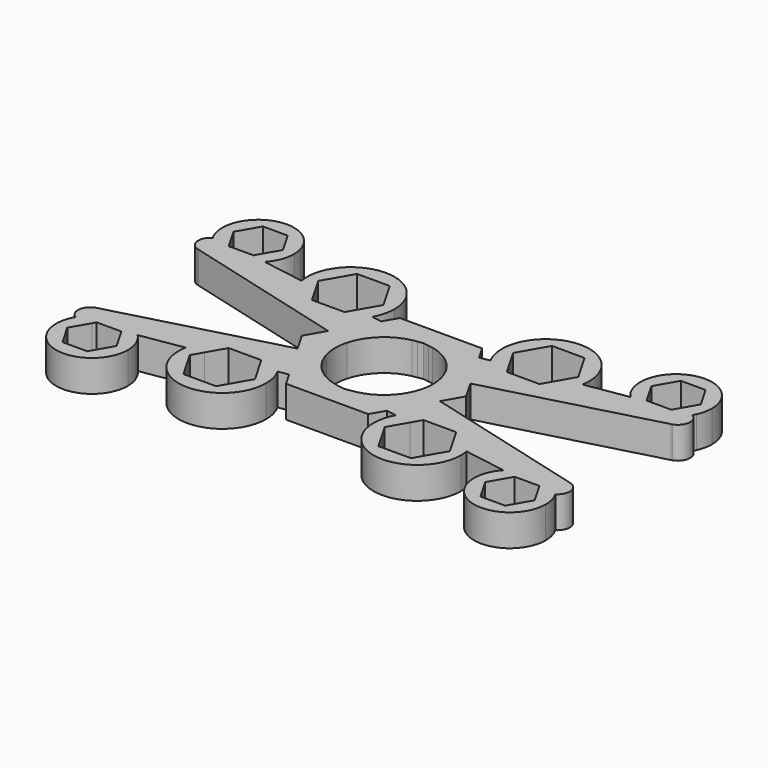
from build123d import *

# Parameters (mm, degrees)
F1_DEPTH = 7.112


with BuildPart() as f1:
    # F0 (on Top) → F1 (new body)
    with BuildSketch(Plane.XY):
        with BuildLine():
            ThreePointArc((10.6251840892, 2.8470094961), (10.9058934751, 1.4357881144), (11, 0))
            ThreePointArc((11, 0), (10.9058934751, -1.4357881144), (10.6251840892, -2.8470094961))
            Line((10.6251840892, -2.8470094961), (16, -4.2871870789))
            Line((16, -4.2871870789), (18.4752086141, 0))
            Line((18.4752086141, 0), (16, 4.2871870789))
            Line((16, 4.2871870789), (10.6251840892, 2.8470094961))
        make_face()
        with BuildLine():
            ThreePointArc((2.3236208311, 10.7517806076), (7.5854623324, 7.9662262837), (10.6251840892, 2.8470094961))
            Line((10.6251840892, 2.8470094961), (16, 4.2871870789))
            Line((16, 4.2871870789), (11.0113274357, 12.9278214226))
            Line((11.0113274357, 12.9278214226), (0, 11.1309567143))
            Line((0, 11.1309567143), (1.2149244137, 10.9327013436))
            ThreePointArc((1.2149244137, 10.9327013436), (1.7715836674, 10.85640324), (2.3236208311, 10.7517806076))
        make_face()
        with BuildLine():
            Line((16, -4.2871870789), (10.6251840892, -2.8470094961))
            ThreePointArc((10.6251840892, -2.8470094961), (7.5854623324, -7.9662262837), (2.3236208311, -10.7517806076))
            ThreePointArc((2.3236208311, -10.7517806076), (1.7715836674, -10.85640324), (1.2149244137, -10.9327013436))
            Line((1.2149244137, -10.9327013436), (0, -11.1309567143))
            Line((0, -11.1309567143), (11.0113274357, -12.9278214226))
            Line((11.0113274357, -12.9278214226), (16, -4.2871870789))
        make_face()
        with BuildLine():
            Line((11.0113274357, 12.9278214226), (16, 4.2871870789))
            Line((16, 4.2871870789), (53.1259204459, 14.2350474806))
            Line((53.1259204459, 14.2350474806), (53.3681734225, 14.2999589701))
            ThreePointArc((53.3681734225, 14.2999589701), (55.2682901636, 16.609098435), (53.9375606845, 19.2871066037))
            ThreePointArc((53.9375606845, 19.2871066037), (47.8886518321, 15.352252649), (41.115004399, 17.8402386621))
            Line((41.115004399, 17.8402386621), (31.5830197659, 16.2847779888))
            ThreePointArc((31.5830197659, 16.2847779888), (23.4939599579, 8.3460272865), (13.3007907375, 13.3014235911))
            Line((13.3007907375, 13.3014235911), (11.0113274357, 12.9278214226))
        make_face()
        with BuildLine():
            Line((53.1259204459, -14.2350474806), (16, -4.2871870789))
            Line((16, -4.2871870789), (11.0113274357, -12.9278214226))
            Line((11.0113274357, -12.9278214226), (13.3007907375, -13.3014235911))
            ThreePointArc((13.3007907375, -13.3014235911), (23.4939599579, -8.3460272865), (31.5830197659, -16.2847779888))
            Line((31.5830197659, -16.2847779888), (41.115004399, -17.8402386621))
            ThreePointArc((41.115004399, -17.8402386621), (47.8886518321, -15.352252649), (53.9375606845, -19.2871066037))
            ThreePointArc((53.9375606845, -19.2871066037), (55.2682901636, -16.609098435), (53.3681734225, -14.2999589701))
            Line((53.3681734225, -14.2999589701), (53.1259204459, -14.2350474806))
        make_face()
        with BuildLine():
            Line((-16, -4.2871870789), (-10.6251840892, -2.8470094961))
            ThreePointArc((-10.6251840892, -2.8470094961), (-11, 0), (-10.6251840892, 2.8470094961))
            Line((-10.6251840892, 2.8470094961), (-16, 4.2871870789))
            Line((-16, 4.2871870789), (-18.4752086141, 0))
            Line((-18.4752086141, 0), (-16, -4.2871870789))
        make_face()
        with BuildLine():
            ThreePointArc((-2.3236208311, -10.7517806076), (-7.5854623324, -7.9662262837), (-10.6251840892, -2.8470094961))
            Line((-10.6251840892, -2.8470094961), (-16, -4.2871870789))
            Line((-16, -4.2871870789), (-11.0113274357, -12.9278214226))
            Line((-11.0113274357, -12.9278214226), (0, -11.1309567143))
            Line((0, -11.1309567143), (-1.2149244137, -10.9327013436))
            ThreePointArc((-1.2149244137, -10.9327013436), (-1.7715836674, -10.85640324), (-2.3236208311, -10.7517806076))
        make_face()
        with BuildLine():
            Line((-16, 4.2871870789), (-10.6251840892, 2.8470094961))
            ThreePointArc((-10.6251840892, 2.8470094961), (-7.5854623324, 7.9662262837), (-2.3236208311, 10.7517806076))
            ThreePointArc((-2.3236208311, 10.7517806076), (-1.7715836674, 10.85640324), (-1.2149244137, 10.9327013436))
            Line((-1.2149244137, 10.9327013436), (0, 11.1309567143))
            Line((0, 11.1309567143), (-11.0113274357, 12.9278214226))
            Line((-11.0113274357, 12.9278214226), (-16, 4.2871870789))
        make_face()
        Polygon((0, 11.1309567143), (11.0113274357, 12.9278214226), (9.237604307, 16), (-9.237604307, 16), (-11.0113274357, 12.9278214226), align=None)
        with BuildLine():
            Line((53.3681734225, 14.2999589701), (53.1259204459, 14.2350474806))
            ThreePointArc((53.1259204459, 14.2350474806), (53.2477873047, 14.2647401251), (53.3681734225, 14.2999589701))
        make_face()
        Polygon((9.237604307, -16), (11.0113274357, -12.9278214226), (0, -11.1309567143), (-11.0113274357, -12.9278214226), (-9.237604307, -16), align=None)
        with BuildLine():
            ThreePointArc((53.3681734225, -14.2999589701), (53.2477873047, -14.2647401251), (53.1259204459, -14.2350474806))
            Line((53.1259204459, -14.2350474806), (53.3681734225, -14.2999589701))
        make_face()
        with BuildLine():
            Line((-11.0113274357, -12.9278214226), (-16, -4.2871870789))
            Line((-16, -4.2871870789), (-53.1259204459, -14.2350474806))
            Line((-53.1259204459, -14.2350474806), (-53.3681734225, -14.2999589701))
            ThreePointArc((-53.3681734225, -14.2999589701), (-55.2682901636, -16.609098435), (-53.9375606845, -19.2871066037))
            ThreePointArc((-53.9375606845, -19.2871066037), (-47.8886518321, -15.352252649), (-41.115004399, -17.8402386621))
            Line((-41.115004399, -17.8402386621), (-31.5830197659, -16.2847779888))
            ThreePointArc((-31.5830197659, -16.2847779888), (-23.4939599579, -8.3460272865), (-13.3007907375, -13.3014235911))
            Line((-13.3007907375, -13.3014235911), (-11.0113274357, -12.9278214226))
        make_face()
        with BuildLine():
            Line((-53.1259204459, 14.2350474806), (-16, 4.2871870789))
            Line((-16, 4.2871870789), (-11.0113274357, 12.9278214226))
            Line((-11.0113274357, 12.9278214226), (-13.3007907375, 13.3014235911))
            ThreePointArc((-13.3007907375, 13.3014235911), (-23.4939599579, 8.3460272865), (-31.5830197659, 16.2847779888))
            Line((-31.5830197659, 16.2847779888), (-41.115004399, 17.8402386621))
            ThreePointArc((-41.115004399, 17.8402386621), (-47.8886518321, 15.352252649), (-53.9375606845, 19.2871066037))
            ThreePointArc((-53.9375606845, 19.2871066037), (-55.2682901636, 16.609098435), (-53.3681734225, 14.2999589701))
            Line((-53.3681734225, 14.2999589701), (-53.1259204459, 14.2350474806))
        make_face()
        with BuildLine():
            ThreePointArc((31.7427785702, 18.0500217619), (19.4586857777, 27.5717876146), (13.3007907375, 13.3014235911))
            Line((13.3007907375, 13.3014235911), (16.9736515499, 13.9007731255))
            Line((16.9736515499, 13.9007731255), (14.5780817328, 18.0500217619))
            Line((14.5780817328, 18.0500217619), (18.2442559421, 24.4000217619))
            Line((18.2442559421, 24.4000217619), (25.5766043608, 24.4000217619))
            Line((25.5766043608, 24.4000217619), (29.2427785702, 18.0500217619))
            Line((29.2427785702, 18.0500217619), (27.8741913374, 15.6795591402))
            Line((27.8741913374, 15.6795591402), (31.5830197659, 16.2847779888))
            ThreePointArc((31.5830197659, 16.2847779888), (31.702757419, 17.1637926079), (31.7427785702, 18.0500217619))
        make_face()
        with BuildLine():
            Line((16.9736515499, 13.9007731255), (13.3007907375, 13.3014235911))
            ThreePointArc((13.3007907375, 13.3014235911), (23.4939599579, 8.3460272865), (31.5830197659, 16.2847779888))
            Line((31.5830197659, 16.2847779888), (27.8741913374, 15.6795591402))
            Line((27.8741913374, 15.6795591402), (25.5766043608, 11.7000217619))
            Line((25.5766043608, 11.7000217619), (18.2442559421, 11.7000217619))
            Line((18.2442559421, 11.7000217619), (16.9736515499, 13.9007731255))
        make_face()
        with BuildLine():
            ThreePointArc((31.5830197659, -16.2847779888), (23.4939599579, -8.3460272865), (13.3007907375, -13.3014235911))
            Line((13.3007907375, -13.3014235911), (16.9736515499, -13.9007731255))
            Line((16.9736515499, -13.9007731255), (18.2442559421, -11.7000217619))
            Line((18.2442559421, -11.7000217619), (25.5766043608, -11.7000217619))
            Line((25.5766043608, -11.7000217619), (27.8741913374, -15.6795591402))
            Line((27.8741913374, -15.6795591402), (31.5830197659, -16.2847779888))
        make_face()
        with BuildLine():
            Line((16.9736515499, -13.9007731255), (13.3007907375, -13.3014235911))
            ThreePointArc((13.3007907375, -13.3014235911), (19.4586857777, -27.5717876146), (31.7427785702, -18.0500217619))
            ThreePointArc((31.7427785702, -18.0500217619), (31.702757419, -17.1637926079), (31.5830197659, -16.2847779888))
            Line((31.5830197659, -16.2847779888), (27.8741913374, -15.6795591402))
            Line((27.8741913374, -15.6795591402), (29.2427785702, -18.0500217619))
            Line((29.2427785702, -18.0500217619), (25.5766043608, -24.4000217619))
            Line((25.5766043608, -24.4000217619), (18.2442559421, -24.4000217619))
            Line((18.2442559421, -24.4000217619), (14.5780817328, -18.0500217619))
            Line((14.5780817328, -18.0500217619), (16.9736515499, -13.9007731255))
        make_face()
        with BuildLine():
            Line((-53.3681734225, -14.2999589701), (-53.1259204459, -14.2350474806))
            ThreePointArc((-53.1259204459, -14.2350474806), (-53.2477873047, -14.2647401251), (-53.3681734225, -14.2999589701))
        make_face()
        with BuildLine():
            ThreePointArc((-53.3681734225, 14.2999589701), (-53.2477873047, 14.2647401251), (-53.1259204459, 14.2350474806))
            Line((-53.1259204459, 14.2350474806), (-53.3681734225, 14.2999589701))
        make_face()
        with BuildLine():
            ThreePointArc((41.115004399, 17.8402386621), (47.8886518321, 15.352252649), (53.9375606845, 19.2871066037))
            ThreePointArc((53.9375606845, 19.2871066037), (53.1131755361, 19.6098053339), (52.2289781033, 19.6538535269))
            Line((52.2289781033, 19.6538535269), (51.958395369, 19.6096989443))
            Line((51.958395369, 19.6096989443), (50.2132601624, 19.3249220287))
            Line((50.2132601624, 19.3249220287), (49.7634604776, 18.5458461214))
            Line((49.7634604776, 18.5458461214), (45.4390220833, 18.5458461214))
            Line((45.4390220833, 18.5458461214), (41.115004399, 17.8402386621))
        make_face()
        with BuildLine():
            ThreePointArc((52.2289781033, 19.6538535269), (53.1131755361, 19.6098053339), (53.9375606845, 19.2871066037))
            ThreePointArc((53.9375606845, 19.2871066037), (54.1300667524, 19.6353377424), (54.3051441022, 19.9926491384))
            Line((54.3051441022, 19.9926491384), (52.2289781033, 19.6538535269))
        make_face()
        with BuildLine():
            ThreePointArc((54.3051441022, -19.9926491384), (54.1300667524, -19.6353377424), (53.9375606845, -19.2871066037))
            ThreePointArc((53.9375606845, -19.2871066037), (53.1131755361, -19.6098053339), (52.2289781033, -19.6538535269))
            Line((52.2289781033, -19.6538535269), (54.3051441022, -19.9926491384))
        make_face()
        with BuildLine():
            ThreePointArc((52.2289781033, -19.6538535269), (53.1131755361, -19.6098053339), (53.9375606845, -19.2871066037))
            ThreePointArc((53.9375606845, -19.2871066037), (47.8886518321, -15.352252649), (41.115004399, -17.8402386621))
            Line((41.115004399, -17.8402386621), (45.4390220833, -18.5458461214))
            Line((45.4390220833, -18.5458461214), (49.7634604776, -18.5458461214))
            Line((49.7634604776, -18.5458461214), (50.2132601624, -19.3249220287))
            Line((50.2132601624, -19.3249220287), (51.958395369, -19.6096989443))
            Line((51.958395369, -19.6096989443), (52.2289781033, -19.6538535269))
        make_face()
        with BuildLine():
            Line((-16.9736515499, 13.9007731255), (-13.3007907375, 13.3014235911))
            ThreePointArc((-13.3007907375, 13.3014235911), (-12.3886642989, 15.5982773881), (-12.0780817328, 18.0500217619))
            ThreePointArc((-12.0780817328, 18.0500217619), (-22.7966593056, 27.8423490294), (-31.5830197659, 16.2847779888))
            Line((-31.5830197659, 16.2847779888), (-27.8741913374, 15.6795591402))
            Line((-27.8741913374, 15.6795591402), (-29.2427785702, 18.0500217619))
            Line((-29.2427785702, 18.0500217619), (-25.5766043608, 24.4000217619))
            Line((-25.5766043608, 24.4000217619), (-18.2442559421, 24.4000217619))
            Line((-18.2442559421, 24.4000217619), (-14.5780817328, 18.0500217619))
            Line((-14.5780817328, 18.0500217619), (-16.9736515499, 13.9007731255))
        make_face()
        with BuildLine():
            ThreePointArc((-31.5830197659, 16.2847779888), (-23.4939599579, 8.3460272865), (-13.3007907375, 13.3014235911))
            Line((-13.3007907375, 13.3014235911), (-16.9736515499, 13.9007731255))
            Line((-16.9736515499, 13.9007731255), (-18.2442559421, 11.7000217619))
            Line((-18.2442559421, 11.7000217619), (-25.5766043608, 11.7000217619))
            Line((-25.5766043608, 11.7000217619), (-27.8741913374, 15.6795591402))
            Line((-27.8741913374, 15.6795591402), (-31.5830197659, 16.2847779888))
        make_face()
        with BuildLine():
            Line((-16.9736515499, -13.9007731255), (-13.3007907375, -13.3014235911))
            ThreePointArc((-13.3007907375, -13.3014235911), (-23.4939599579, -8.3460272865), (-31.5830197659, -16.2847779888))
            Line((-31.5830197659, -16.2847779888), (-27.8741913374, -15.6795591402))
            Line((-27.8741913374, -15.6795591402), (-25.5766043608, -11.7000217619))
            Line((-25.5766043608, -11.7000217619), (-18.2442559421, -11.7000217619))
            Line((-18.2442559421, -11.7000217619), (-16.9736515499, -13.9007731255))
        make_face()
        with BuildLine():
            ThreePointArc((-12.0780817328, -18.0500217619), (-12.3886642989, -15.5982773881), (-13.3007907375, -13.3014235911))
            Line((-13.3007907375, -13.3014235911), (-16.9736515499, -13.9007731255))
            Line((-16.9736515499, -13.9007731255), (-14.5780817328, -18.0500217619))
            Line((-14.5780817328, -18.0500217619), (-18.2442559421, -24.4000217619))
            Line((-18.2442559421, -24.4000217619), (-25.5766043608, -24.4000217619))
            Line((-25.5766043608, -24.4000217619), (-29.2427785702, -18.0500217619))
            Line((-29.2427785702, -18.0500217619), (-27.8741913374, -15.6795591402))
            Line((-27.8741913374, -15.6795591402), (-31.5830197659, -16.2847779888))
            ThreePointArc((-31.5830197659, -16.2847779888), (-22.7966593056, -27.8423490294), (-12.0780817328, -18.0500217619))
        make_face()
        with BuildLine():
            ThreePointArc((55.0415854776, 23.3576997712), (44.017987393, 30.8475602109), (41.115004399, 17.8402386621))
            Line((41.115004399, 17.8402386621), (45.4390220833, 18.5458461214))
            Line((45.4390220833, 18.5458461214), (44.2072104776, 18.5458461214))
            Line((44.2072104776, 18.5458461214), (41.4290854776, 23.3576997712))
            Line((41.4290854776, 23.3576997712), (44.2072104776, 28.1695534209))
            Line((44.2072104776, 28.1695534209), (49.7634604776, 28.1695534209))
            Line((49.7634604776, 28.1695534209), (52.5415854776, 23.3576997712))
            Line((52.5415854776, 23.3576997712), (50.2132601624, 19.3249220287))
            Line((50.2132601624, 19.3249220287), (51.958395369, 19.6096989443))
            ThreePointArc((51.958395369, 19.6096989443), (52.0931361455, 19.6351502983), (52.2289781033, 19.6538535269))
            Line((52.2289781033, 19.6538535269), (54.3051441022, 19.9926491384))
            ThreePointArc((54.3051441022, 19.9926491384), (54.855321891, 21.6353531408), (55.0415854776, 23.3576997712))
        make_face()
        with BuildLine():
            Line((45.4390220833, -18.5458461214), (41.115004399, -17.8402386621))
            ThreePointArc((41.115004399, -17.8402386621), (44.017987393, -30.8475602109), (55.0415854776, -23.3576997712))
            ThreePointArc((55.0415854776, -23.3576997712), (54.855321891, -21.6353531408), (54.3051441022, -19.9926491384))
            Line((54.3051441022, -19.9926491384), (52.2289781033, -19.6538535269))
            ThreePointArc((52.2289781033, -19.6538535269), (52.0931361455, -19.6351502983), (51.958395369, -19.6096989443))
            Line((51.958395369, -19.6096989443), (50.2132601624, -19.3249220287))
            Line((50.2132601624, -19.3249220287), (52.5415854776, -23.3576997712))
            Line((52.5415854776, -23.3576997712), (49.7634604776, -28.1695534209))
            Line((49.7634604776, -28.1695534209), (44.2072104776, -28.1695534209))
            Line((44.2072104776, -28.1695534209), (41.4290854776, -23.3576997712))
            Line((41.4290854776, -23.3576997712), (44.2072104776, -18.5458461214))
            Line((44.2072104776, -18.5458461214), (45.4390220833, -18.5458461214))
        make_face()
        with BuildLine():
            ThreePointArc((-41.115004399, -17.8402386621), (-47.8886518321, -15.352252649), (-53.9375606845, -19.2871066037))
            ThreePointArc((-53.9375606845, -19.2871066037), (-53.1131755361, -19.6098053339), (-52.2289781033, -19.6538535269))
            Line((-52.2289781033, -19.6538535269), (-51.958395369, -19.6096989443))
            Line((-51.958395369, -19.6096989443), (-50.2132601624, -19.3249220287))
            Line((-50.2132601624, -19.3249220287), (-49.7634604776, -18.5458461214))
            Line((-49.7634604776, -18.5458461214), (-45.4390220833, -18.5458461214))
            Line((-45.4390220833, -18.5458461214), (-41.115004399, -17.8402386621))
        make_face()
        with BuildLine():
            ThreePointArc((-52.2289781033, -19.6538535269), (-53.1131755361, -19.6098053339), (-53.9375606845, -19.2871066037))
            ThreePointArc((-53.9375606845, -19.2871066037), (-54.1300667524, -19.6353377424), (-54.3051441022, -19.9926491384))
            Line((-54.3051441022, -19.9926491384), (-52.2289781033, -19.6538535269))
        make_face()
        with BuildLine():
            ThreePointArc((-52.2289781033, 19.6538535269), (-53.1131755361, 19.6098053339), (-53.9375606845, 19.2871066037))
            ThreePointArc((-53.9375606845, 19.2871066037), (-47.8886518321, 15.352252649), (-41.115004399, 17.8402386621))
            Line((-41.115004399, 17.8402386621), (-45.4390220833, 18.5458461214))
            Line((-45.4390220833, 18.5458461214), (-49.7634604776, 18.5458461214))
            Line((-49.7634604776, 18.5458461214), (-50.2132601624, 19.3249220287))
            Line((-50.2132601624, 19.3249220287), (-51.958395369, 19.6096989443))
            Line((-51.958395369, 19.6096989443), (-52.2289781033, 19.6538535269))
        make_face()
        with BuildLine():
            ThreePointArc((-54.3051441022, 19.9926491384), (-54.1300667524, 19.6353377424), (-53.9375606845, 19.2871066037))
            ThreePointArc((-53.9375606845, 19.2871066037), (-53.1131755361, 19.6098053339), (-52.2289781033, 19.6538535269))
            Line((-52.2289781033, 19.6538535269), (-54.3051441022, 19.9926491384))
        make_face()
        with BuildLine():
            Line((-45.4390220833, 18.5458461214), (-41.115004399, 17.8402386621))
            ThreePointArc((-41.115004399, 17.8402386621), (-39.4954750378, 20.3903516866), (-38.9290854776, 23.3576997712))
            ThreePointArc((-38.9290854776, 23.3576997712), (-48.707682108, 31.2276861846), (-54.3051441022, 19.9926491384))
            Line((-54.3051441022, 19.9926491384), (-52.2289781033, 19.6538535269))
            ThreePointArc((-52.2289781033, 19.6538535269), (-52.0931361455, 19.6351502983), (-51.958395369, 19.6096989443))
            Line((-51.958395369, 19.6096989443), (-50.2132601624, 19.3249220287))
            Line((-50.2132601624, 19.3249220287), (-52.5415854776, 23.3576997712))
            Line((-52.5415854776, 23.3576997712), (-49.7634604776, 28.1695534209))
            Line((-49.7634604776, 28.1695534209), (-44.2072104776, 28.1695534209))
            Line((-44.2072104776, 28.1695534209), (-41.4290854776, 23.3576997712))
            Line((-41.4290854776, 23.3576997712), (-44.2072104776, 18.5458461214))
            Line((-44.2072104776, 18.5458461214), (-45.4390220833, 18.5458461214))
        make_face()
        with BuildLine():
            ThreePointArc((-38.9290854776, -23.3576997712), (-39.4954750378, -20.3903516866), (-41.115004399, -17.8402386621))
            Line((-41.115004399, -17.8402386621), (-45.4390220833, -18.5458461214))
            Line((-45.4390220833, -18.5458461214), (-44.2072104776, -18.5458461214))
            Line((-44.2072104776, -18.5458461214), (-41.4290854776, -23.3576997712))
            Line((-41.4290854776, -23.3576997712), (-44.2072104776, -28.1695534209))
            Line((-44.2072104776, -28.1695534209), (-49.7634604776, -28.1695534209))
            Line((-49.7634604776, -28.1695534209), (-52.5415854776, -23.3576997712))
            Line((-52.5415854776, -23.3576997712), (-50.2132601624, -19.3249220287))
            Line((-50.2132601624, -19.3249220287), (-51.958395369, -19.6096989443))
            ThreePointArc((-51.958395369, -19.6096989443), (-52.0931361455, -19.6351502983), (-52.2289781033, -19.6538535269))
            Line((-52.2289781033, -19.6538535269), (-54.3051441022, -19.9926491384))
            ThreePointArc((-54.3051441022, -19.9926491384), (-48.707682108, -31.2276861846), (-38.9290854776, -23.3576997712))
        make_face()
    extrude(amount=F1_DEPTH)


solid = f1.part
